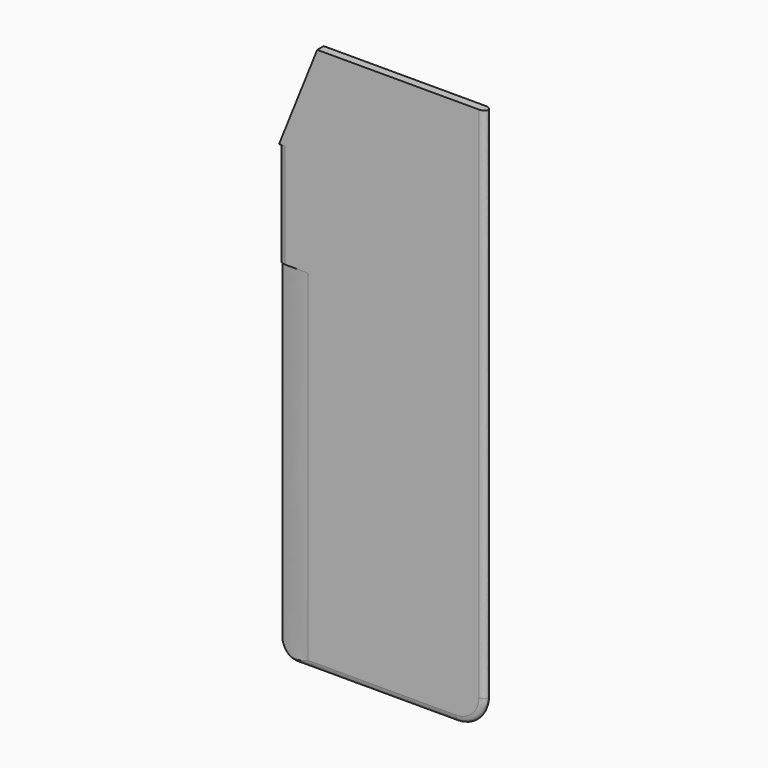
from build123d import *

# Parameters (mm, degrees)
F2_DEPTH = 7
F8_DEPTH = 975


with BuildPart() as f2:
    # F1 (on Front) → F2 (new body, symmetric)
    with BuildSketch(Plane.XZ):
        with BuildLine():
            Line((0, -895), (0, 0))
            Line((0, 0), (-290, 0))
            Line((-290, 0), (-356, -165))
            Line((-356, -165), (-356, -915))
            ThreePointArc((-356, -915), (-347.2132034356, -936.2132034356), (-326, -945))
            Line((-326, -945), (-50, -945))
            ThreePointArc((-50, -945), (-14.6446609407, -930.3553390593), (0, -895))
        make_face()
    extrude(amount=F2_DEPTH, both=True)

    # F7: sweep along a path in F6
    with BuildLine(Plane.XZ) as f7_path:
        Line((0, 0), (0, -895))
        ThreePointArc((0, -895), (-14.6446609407, -930.3553390593), (-50, -945))
        Line((-50, -945), (-326, -945))
        ThreePointArc((-326, -945), (-347.2132034356, -936.2132034356), (-356, -915))
        Line((-356, -915), (-356, -165))
    # F3 (on Top) → F7 (sweep, cut)
    with BuildSketch(Plane.XY):
        with BuildLine():
            add(Edge.make_bspline(
                [(-10.5, -7), (0, -7), (0, 0), (0, 7), (-10.5, 7)],
                knots=[1.5707963268, 1.5707963268, 1.5707963268, 3.1415926536, 3.1415926536, 4.7123889804, 4.7123889804, 4.7123889804], degree=2, weights=[1, 0.7071067812, 1, 0.7071067812, 1]))
            Line((-10.5, -7), (-10.5, -10.9903514385))
            Line((-10.5, -10.9903514385), (2.9582334682, -10.9903514385))
            Line((2.9582334682, -10.9903514385), (2.9582334682, 9.6543207765))
            Line((2.9582334682, 9.6543207765), (-10.5, 9.6543207765))
            Line((-10.5, 9.6543207765), (-10.5, 7))
        make_face()
    sweep(path=f7_path.line, mode=Mode.SUBTRACT)

    # F5 (on offset) → F8 (cut)
    with BuildSketch(Plane.XY.offset(-345)):
        with BuildLine():
            add(Edge.make_bspline(
                [(-356, 0), (-355.9996167193, -0.0454979949), (-355.7262318617, -0.3490169016), (-351.6143061608, -1.1228221561), (-344.1757011611, -2.5027621783), (-334.2818527153, -4.4295739273), (-327.4112328055, -5.2982865334), (-320.106609709, -6.1901737902), (-312.7811010491, -6.9295265019), (-308.3315673438, -6.9911803665), (-306, -6.999836)],
                knots=[0, 0, 0, 0, 0.0262702759, 0.1267393838, 0.2761689471, 0.4425533677, 0.5809422546, 0.7218358167, 0.8636471523, 1, 1, 1, 1], degree=3))
            add(Edge.make_bspline(
                [(-356, 0), (-355.9996167193, 0.0454979949), (-355.7262318617, 0.3490169016), (-351.6143061608, 1.1228221561), (-344.1757011611, 2.5027621783), (-334.2818527153, 4.4295739273), (-327.4112328055, 5.2982865334), (-320.106609709, 6.1901737902), (-312.7811010491, 6.9295265019), (-308.3315673438, 6.9911803665), (-306, 6.999836)],
                knots=[0, 0, 0, 0, 0.0262702759, 0.1267393838, 0.2761689471, 0.4425533677, 0.5809422546, 0.7218358167, 0.8636471523, 1, 1, 1, 1], degree=3))
            Line((-306, 6.999836), (-306, 8.1787118688))
            Line((-306, 8.1787118688), (-357.3989272118, 8.1787118688))
            Line((-357.3989272118, 8.1787118688), (-357.3989272118, -8.1787118688))
            Line((-357.3989272118, -8.1787118688), (-306, -8.1787118688))
            Line((-306, -8.1787118688), (-306, -6.999836))
        make_face()
    extrude(amount=-F8_DEPTH, mode=Mode.SUBTRACT)


solid = f2.part
